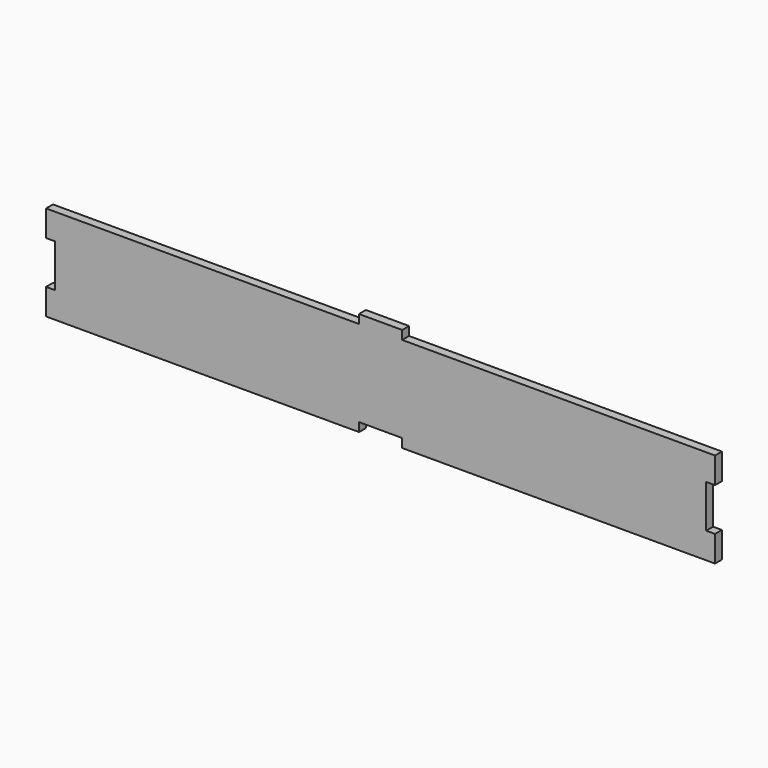
from build123d import *

# Parameters (mm, degrees)
F0_W     = 15
F0_H     = 3.05
F1_DEPTH = 3


with BuildPart() as f1:
    # F0 (on Front) → F1 (new body)
    with BuildSketch(Plane.XZ):
        with Locations((0, 18.025)):
            Rectangle(F0_W, F0_H)
        Polygon((7.45, -16.5), (116, -16.5), (116, -7.45), (112.95, -7.45), (112.95, 7.45), (116, 7.45), (116, 16.5), (7.5, 16.5), (-7.5, 16.5), (-116, 16.5), (-116, 7.45), (-112.95, 7.45), (-112.95, -7.45), (-116, -7.45), (-116, -16.5), (-7.45, -16.5), (-7.45, -13.45), (7.45, -13.45), align=None)
    extrude(amount=F1_DEPTH)


solid = f1.part
